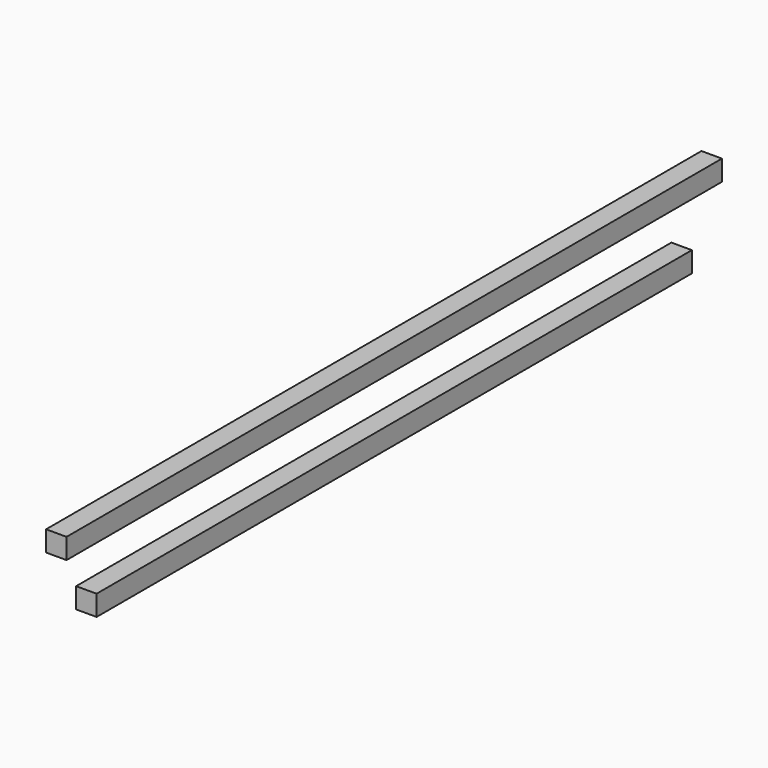
from build123d import *

# Parameters (mm, degrees)
F0_W     = 1384.3
F0_H     = 38.1
F1_DEPTH = 38.1
F2_W     = 1524
F2_H     = 38.1
F3_DEPTH = 38.1


with BuildPart() as f1:
    # F0 (on Right) → F1 (new body)
    with BuildSketch(Plane.YZ):
        Rectangle(F0_W, F0_H)
    extrude(amount=F1_DEPTH)


with BuildPart() as f3:
    # F2 (on Right) → F3 (new body)
    with BuildSketch(Plane.YZ):
        with Locations((0, 121.53666)):
            Rectangle(F2_W, F2_H)
    extrude(amount=F3_DEPTH)


solid = Compound([f1.part, f3.part])
